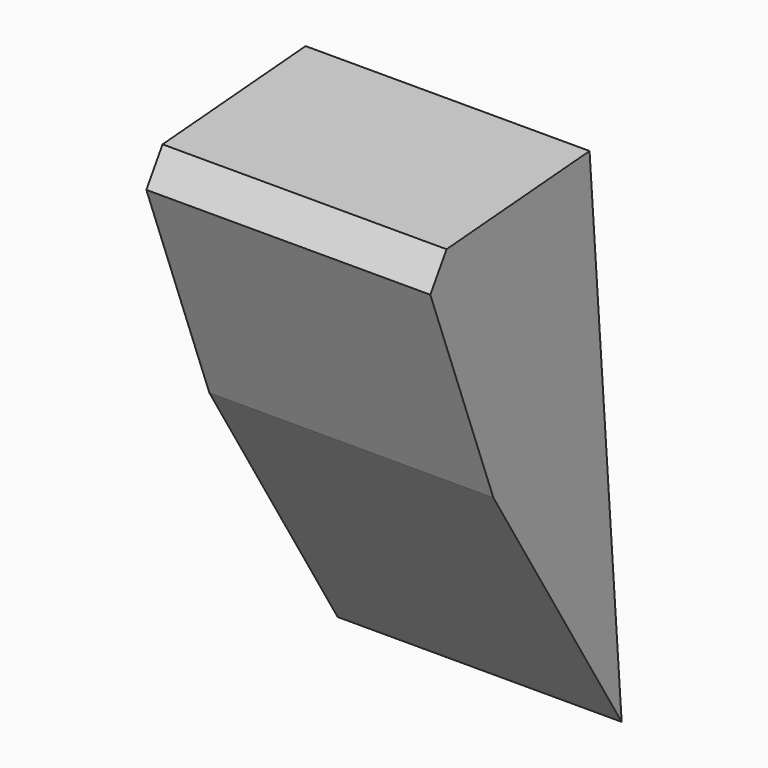
from build123d import *

# Parameters (mm, degrees)
F1_DEPTH = 45.974
F2_SIZE  = 5.08


with BuildPart() as f1:
    # F0 (on Right) → F1 (new body)
    with BuildSketch(Plane.YZ):
        Polygon((-30.088151, 31.578995), (-15.559818, -7.273767), (10.412519, -49.801025), (3.914314, 34.209095), align=None)
    extrude(amount=-F1_DEPTH)

    # F2
    f2_edges = [f1.edges().sort_by_distance(p)[0] for p in [
        (-22.987, -30.088151, 31.578995),
    ]]
    chamfer(f2_edges, length=F2_SIZE)


solid = f1.part
